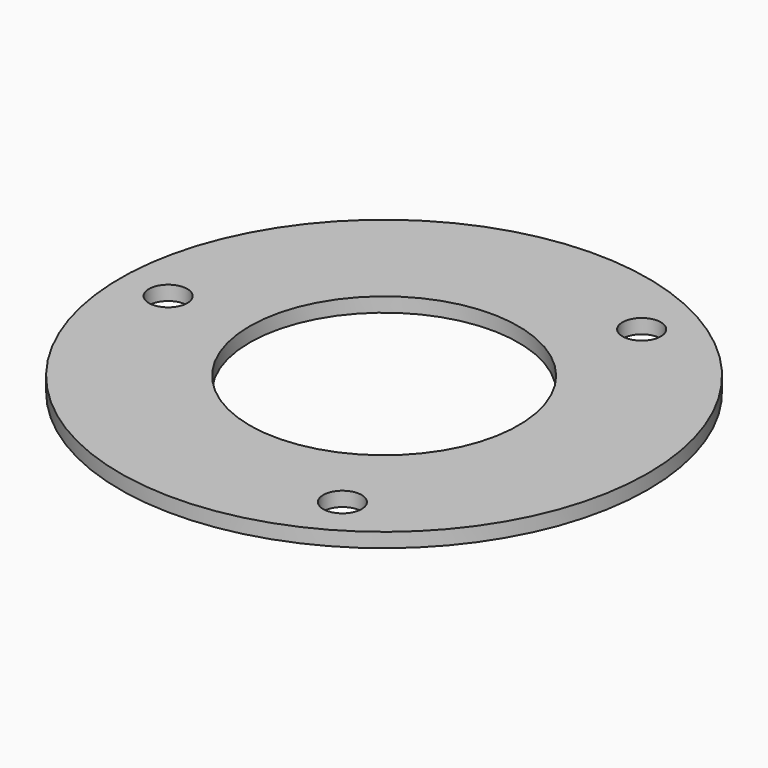
from build123d import *

# Parameters (mm, degrees)
F0_R     = 2
F1_DEPTH = 1.5


with BuildPart() as f1:
    # F0 (on Top) → F1 (new body)
    with BuildSketch(Plane.XY):
        with BuildLine():
            ThreePointArc((14, 0), (0, 14), (-14, 0))
            ThreePointArc((-14, 0), (0, -14), (14, 0))
        make_face()
        with BuildLine():
            ThreePointArc((-27.5, 0), (0, -27.5), (27.5, 0))
            ThreePointArc((27.5, 0), (0, 27.5), (-27.5, 0))
        make_face()
        with Locations((11.25, -19.485572)):
            Circle(F0_R, mode=Mode.SUBTRACT)
        with BuildLine():
            ThreePointArc((-20.5, 0), (-22.5, -2), (-24.5, 0))
            ThreePointArc((-24.5, 0), (-22.5, 2), (-20.5, 0))
        make_face(mode=Mode.SUBTRACT)
        with BuildLine():
            ThreePointArc((14, 0), (0, -14), (-14, 0))
            ThreePointArc((-14, 0), (0, 14), (14, 0))
        make_face(mode=Mode.SUBTRACT)
        with Locations((11.25, 19.485572)):
            Circle(F0_R, mode=Mode.SUBTRACT)
    extrude(amount=F1_DEPTH)


solid = f1.part
